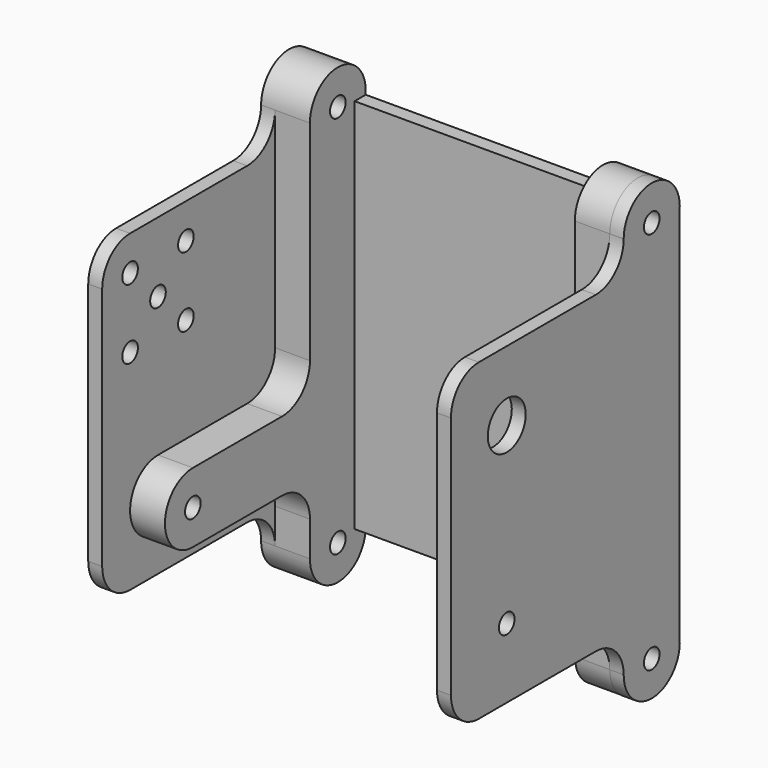
from build123d import *

# Parameters (mm, degrees)
SKETCH_W      = 48
SKETCH_H      = 54
PAD_DEPTH     = 2
SKETCH001_R   = 1.4
PAD001_DEPTH  = 2
SKETCH002_R   = 3.4
SKETCH002_R_2 = 1.4
PAD002_DEPTH  = 2
SKETCH003_R   = 1.4
PAD003_DEPTH  = 5
SKETCH004_R   = 1.4
PAD004_DEPTH  = 5


with BuildPart() as body:
    # Sketch → Pad (new body)
    with BuildSketch(Plane.XZ):
        Rectangle(SKETCH_W, SKETCH_H)
    extrude(amount=PAD_DEPTH)

    # Sketch001 (on Face2 of Pad) → Pad001 (join)
    with BuildSketch(Plane(origin=(24, 0, 0), x_dir=(0, 0, 1), z_dir=(1, 0, 0))):
        with BuildLine():
            Line((-27.5, 0), (27.5, 0))
            ThreePointArc((27.5, 0), (32.5, 5), (27.5, 10))
            ThreePointArc((22.5, 15), (23.964466, 11.464466), (27.5, 10))
            Line((22.5, 35.980762), (22.5, 15))
            ThreePointArc((22.5, 35.980762), (21.035534, 39.516296), (17.5, 40.980762))
            Line((17.5, 40.980762), (-17.5, 40.980762))
            ThreePointArc((-17.5, 40.980762), (-21.035534, 39.516296), (-22.5, 35.980762))
            Line((-22.5, 35.980762), (-22.5, 15))
            ThreePointArc((-27.5, 10), (-23.964466, 11.464466), (-22.5, 15))
            ThreePointArc((-27.5, 10), (-32.5, 5), (-27.5, 0))
        make_face()
        with Locations((-27.5, 5)):
            Circle(SKETCH001_R, mode=Mode.SUBTRACT)
        with Locations((27.5, 5)):
            Circle(SKETCH001_R, mode=Mode.SUBTRACT)
        with Locations((12.5, 30.980762)):
            Circle(SKETCH001_R, mode=Mode.SUBTRACT)
        with Locations((17.5, 25.980762)):
            Circle(SKETCH001_R, mode=Mode.SUBTRACT)
        with Locations((17.5, 35.980762)):
            Circle(SKETCH001_R, mode=Mode.SUBTRACT)
        with Locations((7.5, 35.980762)):
            Circle(SKETCH001_R, mode=Mode.SUBTRACT)
        with Locations((7.5, 25.980762)):
            Circle(SKETCH001_R, mode=Mode.SUBTRACT)
        with Locations((-12.5, 30.980762)):
            Circle(SKETCH001_R, mode=Mode.SUBTRACT)
    extrude(amount=PAD001_DEPTH)

    # Sketch002 (on Face4 of Pad) → Pad002 (join)
    with BuildSketch(Plane(origin=(-24, 0, 0), x_dir=(0, 0, -1), z_dir=(-1, 0, 0))):
        with BuildLine():
            Line((27, 0), (-27, 0))
            ThreePointArc((-27.5, 10.024938), (-32.518699, 4.749689), (-27, 0))
            ThreePointArc((-27.5, 10.024938), (-23.964466, 11.489404), (-22.5, 15.024938))
            Line((-22.5, 35.980762), (-22.5, 15.024938))
            ThreePointArc((-17.5, 40.980762), (-21.035534, 39.516296), (-22.5, 35.980762))
            Line((-17.5, 40.980762), (17.5, 40.980762))
            ThreePointArc((22.5, 35.980762), (21.035534, 39.516296), (17.5, 40.980762))
            Line((22.5, 35.980762), (22.5, 15.024938))
            ThreePointArc((22.5, 15.024938), (23.964466, 11.489404), (27.5, 10.024938))
            ThreePointArc((27, 0), (32.518699, 4.749689), (27.5, 10.024938))
        make_face()
        with Locations((-12.5, 30.980762)):
            Circle(SKETCH002_R, mode=Mode.SUBTRACT)
        with Locations((12.5, 30.980762)):
            Circle(SKETCH002_R_2, mode=Mode.SUBTRACT)
        with Locations((27.5, 5)):
            Circle(SKETCH002_R_2, mode=Mode.SUBTRACT)
        with Locations((-27.5, 5)):
            Circle(SKETCH002_R_2, mode=Mode.SUBTRACT)
    extrude(amount=PAD002_DEPTH)

    # Sketch003 (on Face26 of Pad002) → Pad003 (join)
    with BuildSketch(Plane(origin=(-24, 0, 0), x_dir=(0, 0, 1), z_dir=(1, 0, 0))):
        with BuildLine():
            ThreePointArc((-27.5, 10), (-32.5, 5), (-27.5, 0))
            Line((27, 0), (-27.5, 0))
            ThreePointArc((27, 0), (32.518699, 4.749689), (27.5, 10.024938))
            Line((-27.5, 10), (27.5, 10.024938))
        make_face()
        with Locations((-27.5, 5)):
            Circle(SKETCH003_R, mode=Mode.SUBTRACT)
        with Locations((27.5, 5)):
            Circle(SKETCH003_R, mode=Mode.SUBTRACT)
    extrude(amount=PAD003_DEPTH)

    # Sketch004 (on Face4 of Pad003) → Pad004 (join)
    with BuildSketch(Plane(origin=(24, 0, 0), x_dir=(0, 0, -1), z_dir=(-1, 0, 0))):
        with BuildLine():
            ThreePointArc((-27.5, 10), (-32.5, 5), (-27.5, 0))
            Line((27.5, 0), (-27.5, 0))
            ThreePointArc((27.5, 0), (32.5, 5), (27.5, 10))
            Line((22.5, 10), (27.5, 10))
            ThreePointArc((17.5, 15), (18.964466, 11.464466), (22.5, 10))
            Line((17.5, 30.980762), (17.5, 15))
            ThreePointArc((17.5, 30.980762), (12.5, 35.980762), (7.5, 30.980762))
            Line((7.5, 30.980762), (7.5, 15))
            ThreePointArc((2.5, 10), (6.035534, 11.464466), (7.5, 15))
            Line((-27.5, 10), (2.5, 10))
        make_face()
        with Locations((-27.5, 5)):
            Circle(SKETCH004_R, mode=Mode.SUBTRACT)
        with Locations((27.5, 5)):
            Circle(SKETCH004_R, mode=Mode.SUBTRACT)
        with Locations((12.5, 30.980762)):
            Circle(SKETCH004_R, mode=Mode.SUBTRACT)
    extrude(amount=PAD004_DEPTH)


with BuildPart() as part_mirroring:
    # Part__Mirroring: instance of Body
    add(body.part.mirror(Plane(origin=(0, 0, 0), x_dir=(0, -1, 0), z_dir=(1, 0, 0))))


solid = part_mirroring.part
